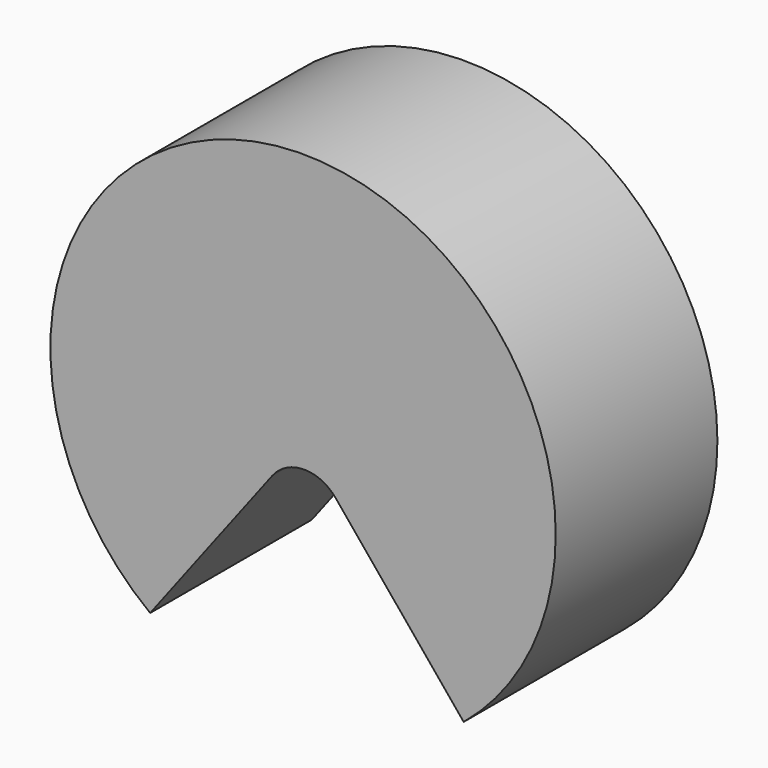
from build123d import *

# Parameters (mm, degrees)
F0_R     = 12.5
F1_DEPTH = 10
F3_DEPTH = 25.4
F4_R     = 2


with BuildPart() as f1:
    # F0 (on Front) → F1 (new body)
    with BuildSketch(Plane.XZ):
        Circle(F0_R)
    extrude(amount=F1_DEPTH)

    # F2 (on face) → F3 (cut)
    with BuildSketch(Plane(origin=(0, 0, 0), x_dir=(-1, 0, 0), z_dir=(0, 1, 0))):
        with BuildLine():
            Line((0, 0), (-7.94716, -9.648453))
            ThreePointArc((-7.94716, -9.648453), (-0.243247, -12.497633), (7.565699, -9.950387))
            Line((7.565699, -9.950387), (0, 0))
        make_face()
    extrude(amount=-F3_DEPTH, mode=Mode.SUBTRACT)

    # F4
    f4_edges = [f1.edges().sort_by_distance(p)[0] for p in [
        (0, -5, 0),
    ]]
    fillet(f4_edges, radius=F4_R)


solid = f1.part
